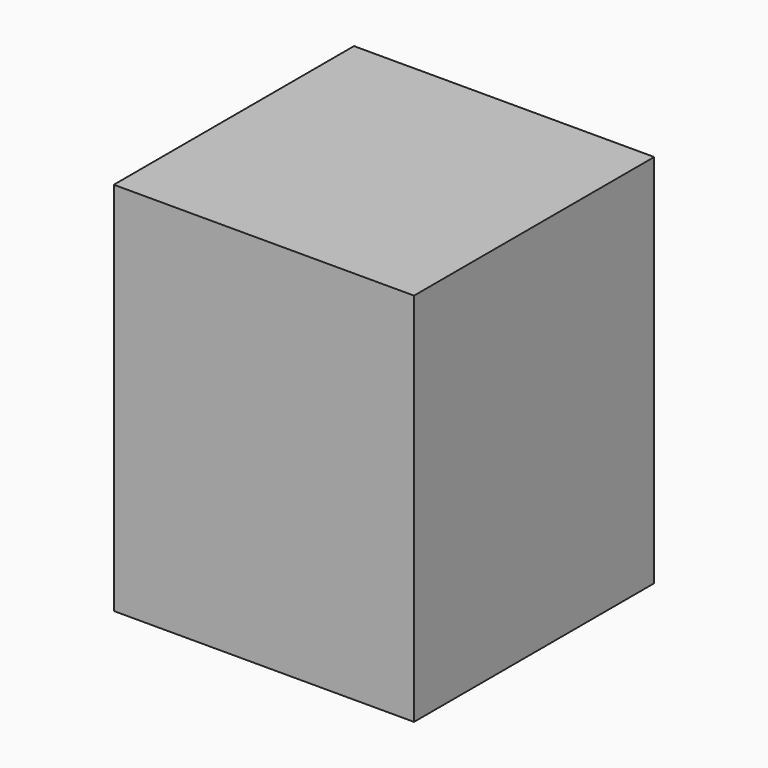
from build123d import *

# Parameters (mm, degrees)
F0_W     = 203.2
F0_H     = 203.2
F0_W_2   = 165.1
F0_H_2   = 165.1
F1_DEPTH = 254
F2_DEPTH = 19.05
F3_R     = 17.78
F4_DEPTH = 25.4


with BuildPart() as f1:
    # F0 (on Top) → F1 (new body)
    with BuildSketch(Plane.XY):
        with Locations((-14.190134, 8.51027)):
            Rectangle(F0_W, F0_H)
        with Locations((-14.190134, 8.51027)):
            Rectangle(F0_W_2, F0_H_2, mode=Mode.SUBTRACT)
    extrude(amount=-F1_DEPTH)

    # F0 (on Top) → F2 (join)
    with BuildSketch(Plane.XY):
        with Locations((-14.190134, 8.51027)):
            Rectangle(F0_W_2, F0_H_2)
    extrude(amount=-F2_DEPTH)

    # F3 (on face) → F4 (cut)
    with BuildSketch(Plane(origin=(-115.790134, 0, 0), x_dir=(0, -1, 0), z_dir=(-1, 0, 0))):
        with Locations((0, -205.345541)):
            Circle(F3_R)
    extrude(amount=-F4_DEPTH, mode=Mode.SUBTRACT)


solid = f1.part
